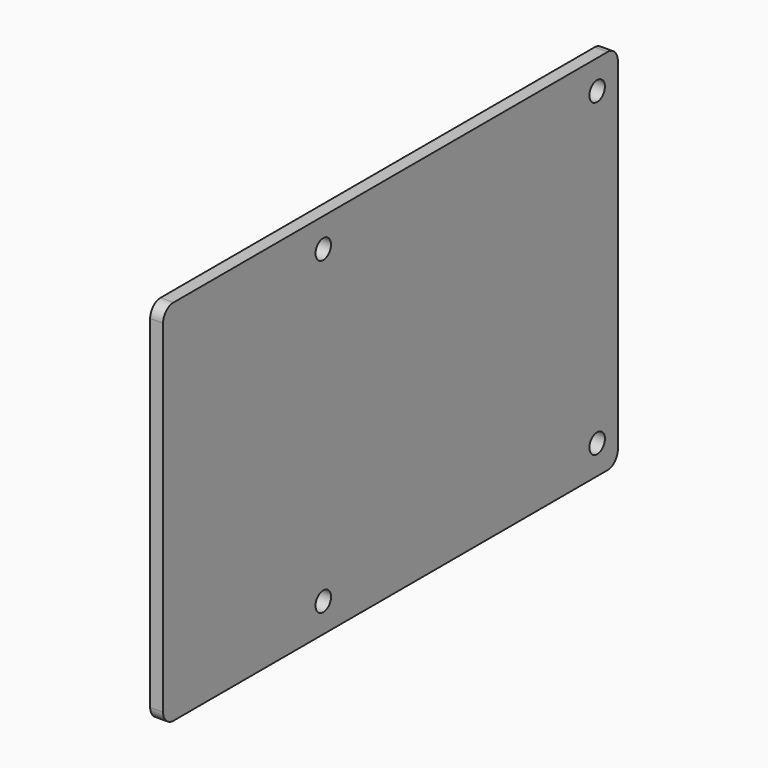
from build123d import *

# Parameters (mm, degrees)
F0_W     = 88
F0_H     = 57
F0_R     = 1.5
F1_DEPTH = 2
F2_R     = 2


with BuildPart() as f1:
    # F0 (on Right) → F1 (new body)
    with BuildSketch(Plane.YZ):
        with Locations((44, 28.5)):
            Rectangle(F0_W, F0_H)
        with Locations((31, 4.5)):
            Circle(F0_R, mode=Mode.SUBTRACT)
        with Locations((84, 4.5)):
            Circle(F0_R, mode=Mode.SUBTRACT)
        with Locations((31, 52.5)):
            Circle(F0_R, mode=Mode.SUBTRACT)
        with Locations((84, 52.5)):
            Circle(F0_R, mode=Mode.SUBTRACT)
    extrude(amount=F1_DEPTH)

    # F2
    f2_edges = [f1.edges().sort_by_distance(p)[0] for p in [
        (1, 0, 0),
        (1, 88, 0),
        (1, 0, 57),
        (1, 88, 57),
    ]]
    fillet(f2_edges, radius=F2_R)


solid = f1.part
